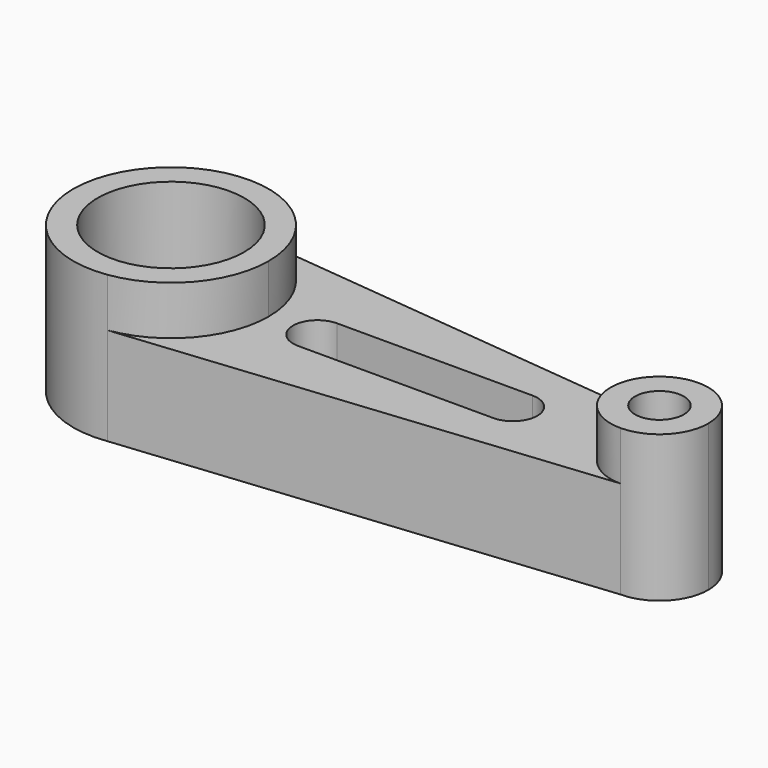
from build123d import *

# Parameters (mm, degrees)
F1_DEPTH = 25.4
F0_R     = 19.05
F0_R_2   = 6.35
F2_DEPTH = 38.1


with BuildPart() as f1:
    # F0 (on Top) → F1 (new body)
    with BuildSketch(Plane.XY):
        with BuildLine():
            ThreePointArc((3.597261, 25.14398), (19.190237, 16.640156), (25.4, 0))
            ThreePointArc((25.4, 0), (19.190237, -16.640156), (3.597261, -25.14398))
            Line((3.597261, -25.14398), (127, -12.7))
            ThreePointArc((127, -12.7), (114.327911, -0.841524), (125.320651, 12.588478))
            Line((125.320651, 12.588478), (3.597261, 25.14398))
        make_face()
        with BuildLine():
            ThreePointArc((38.1, -6.35), (31.75, 0), (38.1, 6.35))
            Line((38.1, 6.35), (88.9, 6.35))
            ThreePointArc((88.9, 6.35), (95.25, 0), (88.9, -6.35))
            Line((88.9, -6.35), (38.1, -6.35))
        make_face(mode=Mode.SUBTRACT)
    extrude(amount=F1_DEPTH)

    # F0 (on Top) → F2 (join)
    with BuildSketch(Plane.XY):
        with BuildLine():
            ThreePointArc((3.597261, -25.14398), (19.190237, -16.640156), (25.4, 0))
            ThreePointArc((25.4, 0), (19.190237, 16.640156), (3.597261, 25.14398))
            ThreePointArc((3.597261, 25.14398), (-25.4, 0), (3.597261, -25.14398))
        make_face()
        Circle(F0_R, mode=Mode.SUBTRACT)
        with BuildLine():
            ThreePointArc((139.7, 0), (135.365473, 9.555567), (125.320651, 12.588478))
            ThreePointArc((125.320651, 12.588478), (114.327911, -0.841524), (127, -12.7))
            ThreePointArc((127, -12.7), (135.980256, -8.980256), (139.7, 0))
        make_face()
        with Locations((127, 0)):
            Circle(F0_R_2, mode=Mode.SUBTRACT)
    extrude(amount=F2_DEPTH)


solid = f1.part
